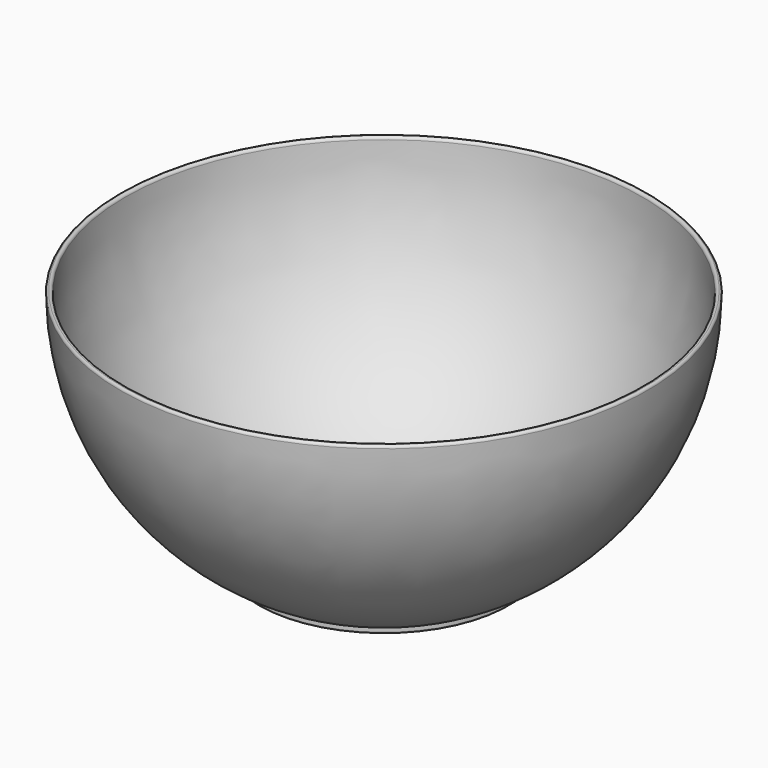
from build123d import *


with BuildPart() as f1:
    # F0 (on Front) → F1 (revolve)
    with BuildSketch(Plane.XZ):
        with BuildLine():
            ThreePointArc((-49.603742, -0.011423), (-49.88837, -0.18823), (-49.997449, -0.505051))
            ThreePointArc((-49.997449, -0.505051), (-42.808594, -25.834556), (-23.748684, -44))
            Line((-23.748684, -44), (-21.563859, -44))
            ThreePointArc((-21.563859, -44), (-41.447541, -26.136207), (-48.9975, -0.494949))
            ThreePointArc((-48.9975, -0.494949), (-49.185704, -0.109105), (-49.603742, -0.011423))
        make_face()
        with BuildLine():
            Line((-21.563859, -44), (-23.748684, -44))
            Line((-23.748684, -44), (-23.748684, -44.754309))
            ThreePointArc((-23.748684, -44.754309), (-23.675461, -44.931086), (-23.498684, -45.004309))
            Line((-23.498684, -45.004309), (0, -45.004309))
            Line((0, -45.004309), (0, -44))
            Line((0, -44), (-21.563859, -44))
        make_face()
    revolve(axis=Axis((0, 0, -6.897418), (0, 0, -1)))


solid = f1.part
